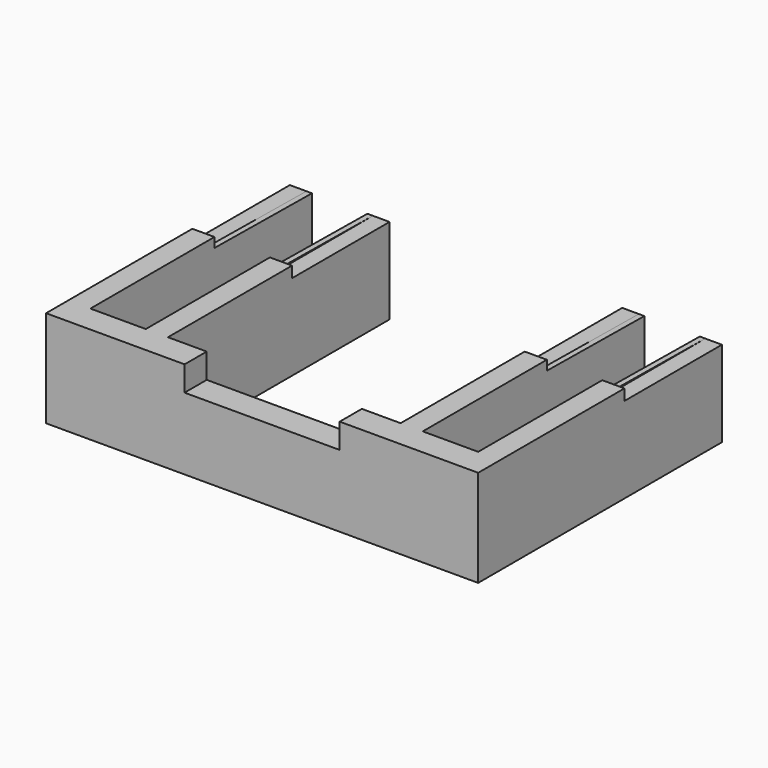
from build123d import *

# Parameters (mm, degrees)
F1_DEPTH  = 40
F2_W      = 4
F2_H      = 0.5
F3_DEPTH  = 18
F5_W      = 1
F5_H      = 22
F6_DEPTH  = 0.5
F4_W      = 10
F4_H      = 6.25
F4_H_2    = 5.75
F7_DEPTH  = 15
F9_DEPTH  = 36.001
F10_DEPTH = 5.75
F11_DEPTH = 7
F12_DEPTH = 10
F14_DEPTH = 1.5


with BuildPart() as f1:
    # F0 (on Front) → F1 (new body)
    with BuildSketch(Plane.XZ):
        Polygon((-25, 2), (-35, 2), (-35, 7.75), (-39, 7.75), (-39, -7.75), (-35, -7.75), (-35, -2), (-25, -2), (-25, -7.75), (-21, -7.75), (-21, 7.75), (-25, 7.75), align=None)
    extrude(amount=-F1_DEPTH)

    # F2 (on face) → F3 (join)
    with BuildSketch(Plane.XZ):
        with Locations((-37, 8)):
            Rectangle(F2_W, F2_H)
        with Locations((-23, 8)):
            Rectangle(F2_W, F2_H)
    extrude(amount=-F3_DEPTH)

    # F5 (on face) → F6 (join)
    with BuildSketch(Plane.XY.offset(7.75)):
        with Locations((-35.5, 29)):
            Rectangle(F5_W, F5_H)
        with Locations((-24.5, 29)):
            Rectangle(F5_W, F5_H)
    extrude(amount=F6_DEPTH)

    # F4 (on face) → F7 (join)
    with BuildSketch(Plane.XZ):
        with Locations((-30, 5.125)):
            Rectangle(F4_W, F4_H)
        Polygon((-35, 8.25), (-39, 8.25), (-39, -7.75), (-35, -7.75), (-35, -2), (-25, -2), (-25, -7.75), (-21, -7.75), (-21, 8.25), (-25, 8.25), (-25, 2), (-35, 2), align=None)
        with Locations((-30, -4.875)):
            Rectangle(F4_W, F4_H_2)
        Polygon((-14, 8.25), (-21, 8.25), (-21, -7.75), (-13.5, -7.75), (0, -7.75), (0, 5.25), (-14, 5.25), align=None)
    extrude(amount=F7_DEPTH)

    # F8 (on face) → F9 (cut, through all)
    with BuildSketch(Plane(origin=(-36, 0, 0), x_dir=(0, -1, 0), z_dir=(-1, 0, 0))):
        Polygon((-40, 8.25), (-40, 7.75), (-18, 8), (-18, 8.25), align=None)
    extrude(amount=-F9_DEPTH, mode=Mode.SUBTRACT)

    # F10 (add, through all): a face of the model
    f10_faces = [f1.faces().sort_by_distance(p)[0] for p in [
        (-30, 20, -2),
    ]]
    extrude(f10_faces, amount=F10_DEPTH)

    # F11 (cut): a face of the model
    f11_faces = [f1.faces().sort_by_distance(p)[0] for p in [
        (-30, 20, 2),
    ]]
    extrude(f11_faces, amount=-F11_DEPTH, mode=Mode.SUBTRACT)

    # F12 (cut): faces of the model
    f12_faces = [f1.faces().sort_by_distance(p)[0] for p in [
        (-11, 0, -0.6785714286),
        (-30, 0, 1.625),
        (-11, 0, -0.6785714286),
    ]]
    extrude(f12_faces, amount=-F12_DEPTH, mode=Mode.SUBTRACT)

    # F13: F1 across plane


with BuildPart() as f1_1:
    add(f1.part)
    add(f1.part.mirror(Plane.YZ))

    # F14 (add): faces of the model
    f14_faces = [f1_1.faces().sort_by_distance(p)[0] for p in [
        (-21.4140048309, 4, 8.25),
        (21.4140048309, 4, 8.25),
    ]]
    extrude(f14_faces, amount=F14_DEPTH)


solid = f1_1.part
